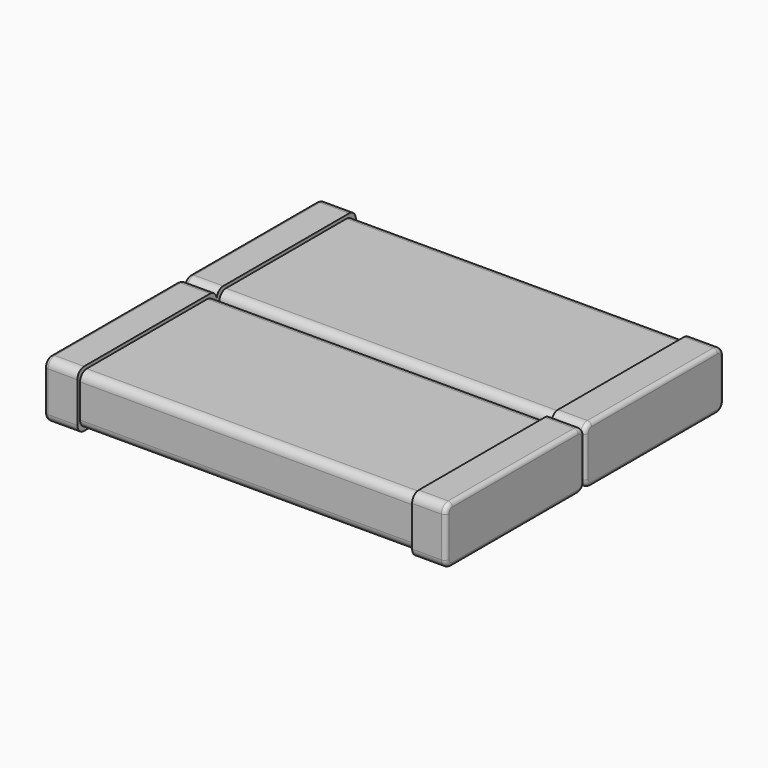
from build123d import *

# Parameters (mm, degrees)
F0_W     = 100
F0_H     = 30
F1_DEPTH = 100
F2_W     = 104
F2_H     = 34
F2_W_2   = 100
F2_H_2   = 30
F3_DEPTH = 20
F4_R     = 5
F6_R     = 2.5


with BuildPart() as f1:
    # F0 (on Right) → F1 (new body)
    with BuildSketch(Plane.YZ):
        with Locations((50, 15)):
            Rectangle(F0_W, F0_H)
    extrude(amount=F1_DEPTH)

    # F2 (on face) → F3 (join)
    with BuildSketch(Plane(origin=(0, 0, 0), x_dir=(0, -1, 0), z_dir=(-1, 0, 0))):
        with Locations((-50, 15)):
            Rectangle(F2_W, F2_H)
        with Locations((-50, 15)):
            Rectangle(F2_W_2, F2_H_2, mode=Mode.SUBTRACT)
        with Locations((-50, 15)):
            Rectangle(F2_W_2, F2_H_2)
    extrude(amount=F3_DEPTH)

    # F4
    f4_edges = [f1.edges().sort_by_distance(p)[0] for p in [
        (50, 0, 30),
        (50, 0, 0),
        (50, 100, 30),
        (50, 100, 0),
        (-10, 102, 32),
        (-10, 102, -2),
        (-10, -2, 32),
        (-10, -2, -2),
    ]]
    fillet(f4_edges, radius=F4_R)

    # F5: F1 across face


with BuildPart() as f1_1:
    add(f1.part)
    add(f1.part.mirror(Plane(origin=(100, 50, 15), x_dir=(0, 1, 0), z_dir=(1, 0, 0))))

    # F6
    f6_edges = [f1_1.edges().sort_by_distance(p)[0] for p in [
        (-20, 50, 32),
        (-20, -0.535534, 30.535534),
        (-20, 100.535534, 30.535534),
        (-20, -2, 15),
        (-20, 102, 15),
        (-20, -0.535534, -0.535534),
        (-20, 100.535534, -0.535534),
        (-20, 50, -2),
        (220, 50, 32),
        (220, -0.535534, 30.535534),
        (220, 100.535534, 30.535534),
        (220, -2, 15),
        (220, 102, 15),
        (220, -0.535534, -0.535534),
        (220, 100.535534, -0.535534),
        (220, 50, -2),
    ]]
    fillet(f6_edges, radius=F6_R)

    # F7: F1 across face


with BuildPart() as f1_2:
    add(f1_1.part)
    add(f1_1.part.mirror(Plane(origin=(-8.75, 102, 15), x_dir=(-1, 0, 0), z_dir=(0, 1, 0))))


solid = f1_2.part
